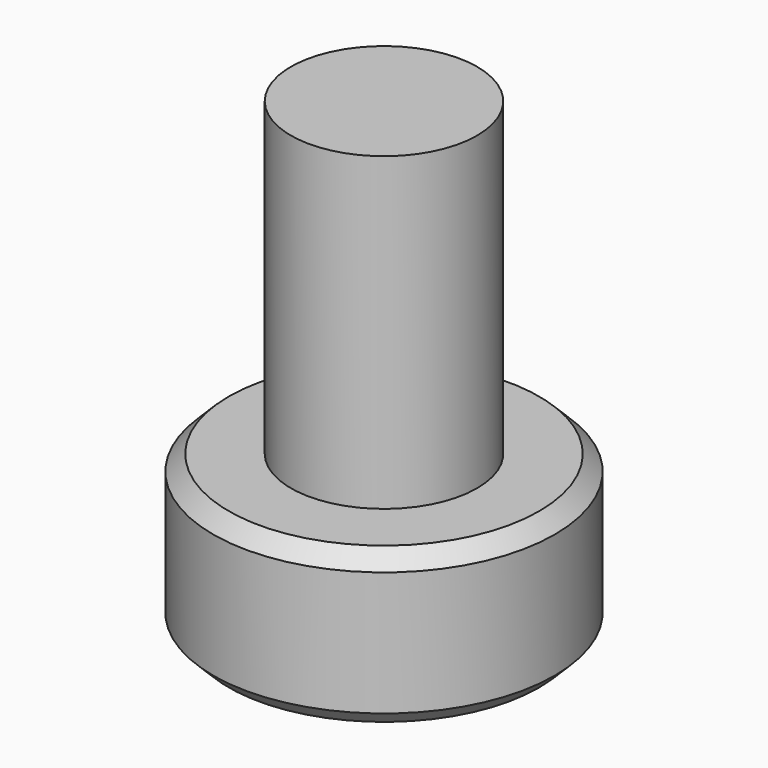
from build123d import *

# Parameters (mm, degrees)
F0_R     = 1.5
F1_DEPTH = 5
F2_R     = 2.75
F3_DEPTH = 2.5
F5_DEPTH = 1.5
F6_SIZE  = 0.25


with BuildPart() as f1:
    # F0 (on Top) → F1 (new body)
    with BuildSketch(Plane.XY):
        Circle(F0_R)
    extrude(amount=F1_DEPTH)

    # F2 (on face) → F3 (join)
    with BuildSketch(Plane(origin=(0, 0, 0), x_dir=(1, 0, 0), z_dir=(0, 0, -1))):
        Circle(F2_R)
    extrude(amount=F3_DEPTH)

    # F4 (on face) → F5 (cut)
    with BuildSketch(Plane(origin=(0, 0, -2.5), x_dir=(1, 0, 0), z_dir=(0, 0, -1))):
        Polygon((1.75, -1.010363), (1.75, 1.010363), (0, 2.020726), (-1.75, 1.010363), (-1.75, -1.010363), (0, -2.020726), align=None)
    extrude(amount=-F5_DEPTH, mode=Mode.SUBTRACT)

    # F6
    f6_edges = [f1.edges().sort_by_distance(p)[0] for p in [
        (-2.75, 0, 0),
        (-2.75, 0, -2.5),
    ]]
    chamfer(f6_edges, length=F6_SIZE)


solid = f1.part
